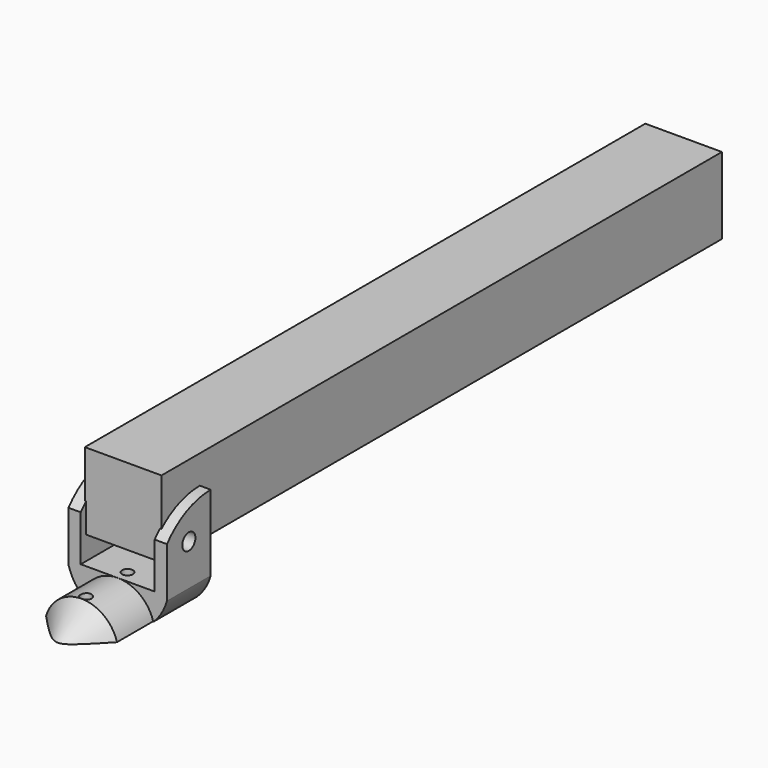
from build123d import *

# Parameters (mm, degrees)
BOX_W             = 28
BOX_H             = 256
BOX_DEPTH         = 28
CYLINDER017_W     = 26
CYLINDER017_H     = 38
CYLINDER017_ANGLE = 180
CYLINDER016_R     = 18.7
CYLINDER016_DEPTH = 66
BOX019_W          = 40
BOX019_H          = 20
BOX019_DEPTH      = 13
CYLINDER015_R     = 2
CYLINDER015_DEPTH = 12
CYLINDER011_R     = 2
CYLINDER011_DEPTH = 12
CYLINDER009_R     = 3
CYLINDER009_DEPTH = 100
BOX018_W          = 27
BOX018_H          = 254
BOX018_DEPTH      = 28.5
BOX015_W          = 36
BOX015_H          = 20
BOX015_DEPTH      = 36
BOX016_W          = 27
BOX016_H          = 75
BOX016_DEPTH      = 20
CONE_ANGLE        = 180
CYLINDER_R        = 13.5
CYLINDER_DEPTH    = 19


with BuildPart() as tslotframecut:
    # Box → Box (new body)
    with BuildSketch(Plane(origin=(-0.5, 30, 65), x_dir=(1, 0, 0), z_dir=(0, 0, 1))):
        with Locations((14, 128)):
            Rectangle(BOX_W, BOX_H)
    extrude(amount=BOX_DEPTH)


with BuildPart() as cylinder017:
    # Cylinder017 → Cylinder017 (revolve)
    with BuildSketch(Plane(origin=(-6, 47.5, 56.6), x_dir=(0, 1, 0), z_dir=(0, 0, -1))):
        with Locations((13, 19)):
            Rectangle(CYLINDER017_W, CYLINDER017_H)
    revolve(axis=Axis((-6, 47.5, 56.6), (1, 0, 0)), revolution_arc=CYLINDER017_ANGLE)


with BuildPart() as reshapes:
    # Cylinder016 → Cylinder016 (new body)
    with BuildSketch(Plane(origin=(13.5, 47.5, 60), x_dir=(1, 0, 0), z_dir=(0, -1, 0))):
        Circle(CYLINDER016_R)
    extrude(amount=CYLINDER016_DEPTH)


with BuildPart() as fusion004:
    # Box019 → Box019 (new body)
    with BuildSketch(Plane(origin=(-6.5, 27.5, 60), x_dir=(1, 0, 0), z_dir=(0, 0, 1))):
        with Locations((20, 10)):
            Rectangle(BOX019_W, BOX019_H)
    extrude(amount=BOX019_DEPTH)

    # Fusion003: union reshapes
    add(reshapes.part)

    # Fusion004: union Cylinder017
    add(cylinder017.part)


with BuildPart() as cylinder015:
    # Cylinder015 → Cylinder015 (new body)
    with BuildSketch(Plane(origin=(13.5, 13, 45), x_dir=(0, 1, 0), z_dir=(0, 0, 1))):
        Circle(CYLINDER015_R)
    extrude(amount=CYLINDER015_DEPTH)


with BuildPart() as heatsetcuts:
    # Cylinder011 → Cylinder011 (new body)
    with BuildSketch(Plane(origin=(13.5, 32, 45), x_dir=(0, 1, 0), z_dir=(0, 0, 1))):
        Circle(CYLINDER011_R)
    extrude(amount=CYLINDER011_DEPTH)

    # Fusion001: union Cylinder015
    add(cylinder015.part)


with BuildPart() as m5cut:
    # Cylinder009 → Cylinder009 (new body)
    with BuildSketch(Plane(origin=(-56.4, 37.5, 70), x_dir=(0, 0, -1), z_dir=(1, 0, 0))):
        Circle(CYLINDER009_R)
    extrude(amount=CYLINDER009_DEPTH)


with BuildPart() as tslotframecut001:
    # Box018 → Box018 (new body)
    with BuildSketch(Plane.XY.offset(56.5)):
        with Locations((13.5, 127)):
            Rectangle(BOX018_W, BOX018_H)
    extrude(amount=BOX018_DEPTH)


with BuildPart() as cut010:
    # Box015 → Box015 (new body)
    with BuildSketch(Plane(origin=(-4.5, 27.5, 46.75), x_dir=(1, 0, 0), z_dir=(0, 0, 1))):
        with Locations((18, 10)):
            Rectangle(BOX015_W, BOX015_H)
    extrude(amount=BOX015_DEPTH)

    # Cut009: cut TSlotFrameCut001
    add(tslotframecut001.part, mode=Mode.SUBTRACT)

    # Cut010: cut m5Cut
    add(m5cut.part, mode=Mode.SUBTRACT)


with BuildPart() as shell_holder002:
    # Box016 → Box016 (new body)
    with BuildSketch(Plane(origin=(0, -20.5, 26.75), x_dir=(1, 0, 0), z_dir=(0, 0, 1))):
        with Locations((13.5, 37.5)):
            Rectangle(BOX016_W, BOX016_H)
    extrude(amount=BOX016_DEPTH)


with BuildPart() as cone:
    # Cone → Cone (revolve)
    with BuildSketch(Plane(origin=(13.5, 11, 43), x_dir=(1, 0, 0), z_dir=(0, 0, -1))):
        Polygon((0, 0), (13.5, 0), (0, 15), align=None)
    revolve(axis=Axis((13.5, 11, 43), (0, -1, 0)), revolution_arc=CONE_ANGLE)


with BuildPart() as base001:
    # Cylinder → Cylinder (new body)
    with BuildSketch(Plane(origin=(13.5, 30, 43), x_dir=(-1, 0, 0), z_dir=(0, -1, 0))):
        Circle(CYLINDER_R)
    extrude(amount=CYLINDER_DEPTH)

    # Fusion: union Cone
    add(cone.part)

    # Cut: cut Shell_Holder002
    add(shell_holder002.part, mode=Mode.SUBTRACT)

    # Fusion002: union Cut010
    add(cut010.part)

    # Cut011: cut heatSetCuts
    add(heatsetcuts.part, mode=Mode.SUBTRACT)

    # Common: intersect Fusion004
    add(fusion004.part, mode=Mode.INTERSECT)


solid = Compound([tslotframecut.part, base001.part])
